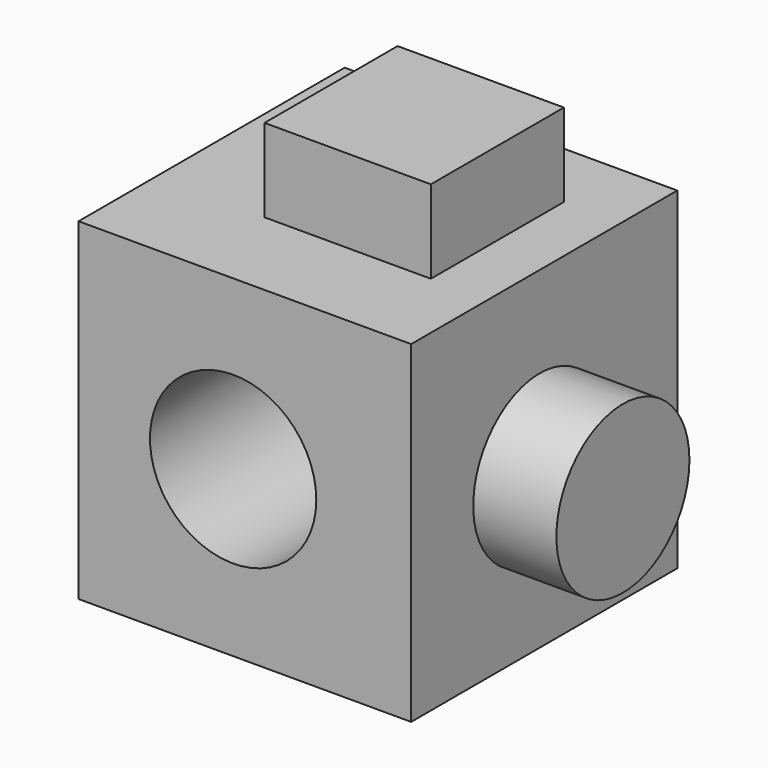
from build123d import *

# Parameters (mm, degrees)
F0_W     = 50.8
F0_H     = 50.8
F1_DEPTH = 50.8
F3_R     = 12.7
F4_DEPTH = 50.8
F2_R     = 12.7
F5_DEPTH = 50.8
F6_R     = 12.7
F7_DEPTH = 12.7
F8_W     = 25.4
F8_H     = 25.4
F9_DEPTH = 12.7


with BuildPart() as f1:
    # F0 (on Front) → F1 (new body)
    with BuildSketch(Plane.XZ):
        with Locations((-25.4, 25.4)):
            Rectangle(F0_W, F0_H)
    extrude(amount=F1_DEPTH)

    # F3 (on face) → F4 (cut)
    with BuildSketch(Plane.XZ.offset(50.8)):
        with Locations((-27.193969, 25.150491)):
            Circle(F3_R)
    extrude(amount=-F4_DEPTH, mode=Mode.SUBTRACT)

    # F2 (on face) → F5 (cut)
    with BuildSketch(Plane.XZ.offset(50.8)):
        with Locations((-27.193969, 25.150491)):
            Circle(F2_R)
    extrude(amount=-F5_DEPTH, mode=Mode.SUBTRACT)

    # F6 (on face) → F7 (join)
    with BuildSketch(Plane.YZ):
        with Locations((-26.250826, 24.20735)):
            Circle(F6_R)
    extrude(amount=F7_DEPTH)

    # F8 (on face) → F9 (join)
    with BuildSketch(Plane.XY.offset(50.8)):
        with Locations((-21.410356, -23.453834)):
            Rectangle(F8_W, F8_H)
    extrude(amount=F9_DEPTH)


solid = f1.part
